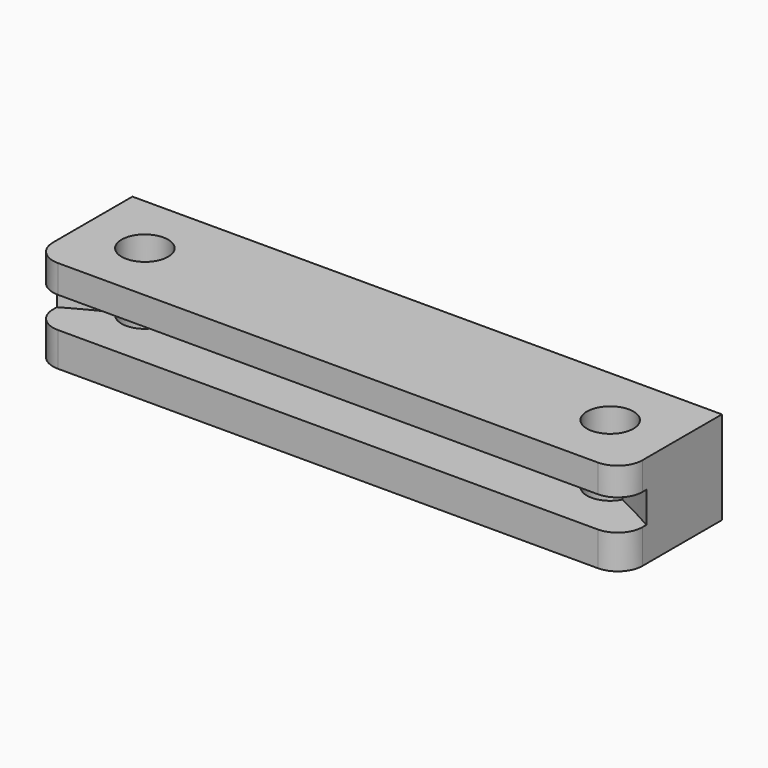
from build123d import *

# Parameters (mm, degrees)
CYLINDER028_R     = 38
CYLINDER028_DEPTH = 2
CYLINDER031_R     = 1.5
CYLINDER031_DEPTH = 10
CYLINDER032_R     = 1.5
CYLINDER032_DEPTH = 10
BOX033_W          = 38
BOX033_H          = 8
BOX033_DEPTH      = 6
FILLET006_R       = 1.6


with BuildPart() as cylinder007:
    # Cylinder028 → Cylinder028 (new body)
    with BuildSketch(Plane.XY.offset(2.2)):
        Circle(CYLINDER028_R)
    extrude(amount=CYLINDER028_DEPTH)


with BuildPart() as cylinder010:
    # Cylinder031 → Cylinder031 (new body)
    with BuildSketch(Plane(origin=(-15, -35, 0), x_dir=(1, 0, 0), z_dir=(0, 0, 1))):
        Circle(CYLINDER031_R)
    extrude(amount=CYLINDER031_DEPTH)


with BuildPart() as fusion017:
    # Cylinder032 → Cylinder032 (new body)
    with BuildSketch(Plane(origin=(15, -35, 0), x_dir=(1, 0, 0), z_dir=(0, 0, 1))):
        Circle(CYLINDER032_R)
    extrude(amount=CYLINDER032_DEPTH)

    # Fusion017: union Cylinder010
    add(cylinder010.part)


with BuildPart() as cut031:
    # Box033 → Box033 (new body)
    with BuildSketch(Plane(origin=(-19, -39, 0), x_dir=(1, 0, 0), z_dir=(0, 0, 1))):
        with Locations((19, 4)):
            Rectangle(BOX033_W, BOX033_H)
    extrude(amount=BOX033_DEPTH)

    # Fillet006
    fillet006_edges = [cut031.edges().sort_by_distance(p)[0] for p in [
        (-19, -31, 3),
        (19, -31, 3),
    ]]
    fillet(fillet006_edges, radius=FILLET006_R)

    # Cut030: cut Fusion017
    add(fusion017.part, mode=Mode.SUBTRACT)

    # Cut031: cut Cylinder007
    add(cylinder007.part, mode=Mode.SUBTRACT)


with BuildPart() as part_mirroring003:
    # Part__Mirroring003: instance of Cut031
    add(cut031.part.mirror(Plane(origin=(0, 0, 0), x_dir=(1, 0, 0), z_dir=(0, 1, 0))))


solid = part_mirroring003.part
